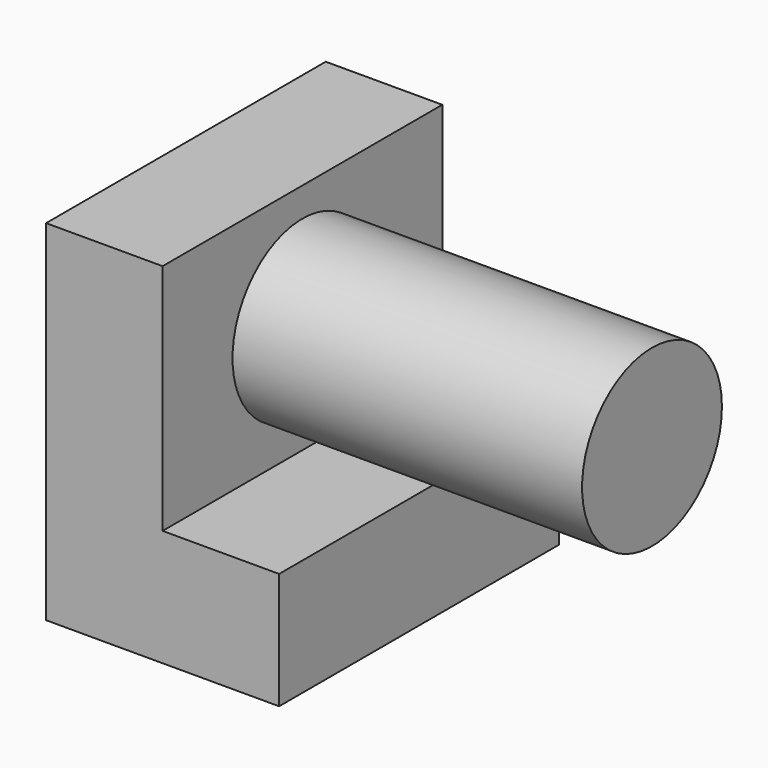
from build123d import *

# Parameters (mm, degrees)
F1_DEPTH = 76.2
F2_R     = 19.05
F3_DEPTH = 76.2


with BuildPart() as f1:
    # F0 (on Front) → F1 (new body)
    with BuildSketch(Plane.XZ):
        Polygon((25.4, 0), (0, 0), (0, 50.8), (-25.4, 50.8), (-25.4, -25.4), (25.4, -25.4), align=None)
    extrude(amount=F1_DEPTH)

    # F2 (on face) → F3 (join)
    with BuildSketch(Plane.YZ):
        with Locations((-38.1, 25.4)):
            Circle(F2_R)
    extrude(amount=F3_DEPTH)


solid = f1.part
